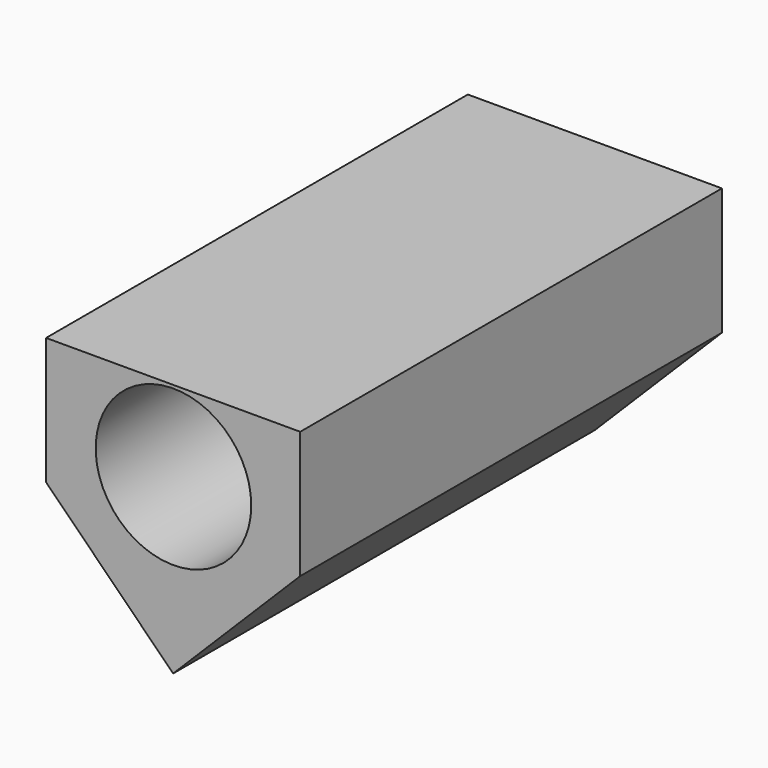
from build123d import *

# Parameters (mm, degrees)
F0_W     = 61.2226556987
F0_H     = 61.2226556987
F1_DEPTH = 127
F2_R     = 18.7364808047
F3_DEPTH = 127.001
F5_DEPTH = 127.001


with BuildPart() as f1:
    # F0 (on Front) → F1 (new body)
    with BuildSketch(Plane.XZ):
        with Locations((-14.1857275739, 9.3327248469)):
            Rectangle(F0_W, F0_H)
    extrude(amount=F1_DEPTH)

    # F2 (on face) → F3 (cut, through all)
    with BuildSketch(Plane.XZ.offset(127)):
        with Locations((-14.1071435064, 20.4563848674)):
            Circle(F2_R)
    extrude(amount=-F3_DEPTH, mode=Mode.SUBTRACT)

    # F4 (on face) → F5 (cut, through all)
    with BuildSketch(Plane(origin=(0, 0, 0), x_dir=(-1, 0, 0), z_dir=(0, 1, 0))):
        Polygon((-16.4256002754, -21.2786030024), (14.1857275739, -21.2786030024), (-16.4256002754, 9.3327248469), align=None)
        Polygon((44.7970554233, 9.3327248469), (14.1857275739, -21.2786030024), (44.7970554233, -21.2786030024), align=None)
    extrude(amount=-F5_DEPTH, mode=Mode.SUBTRACT)


solid = f1.part
